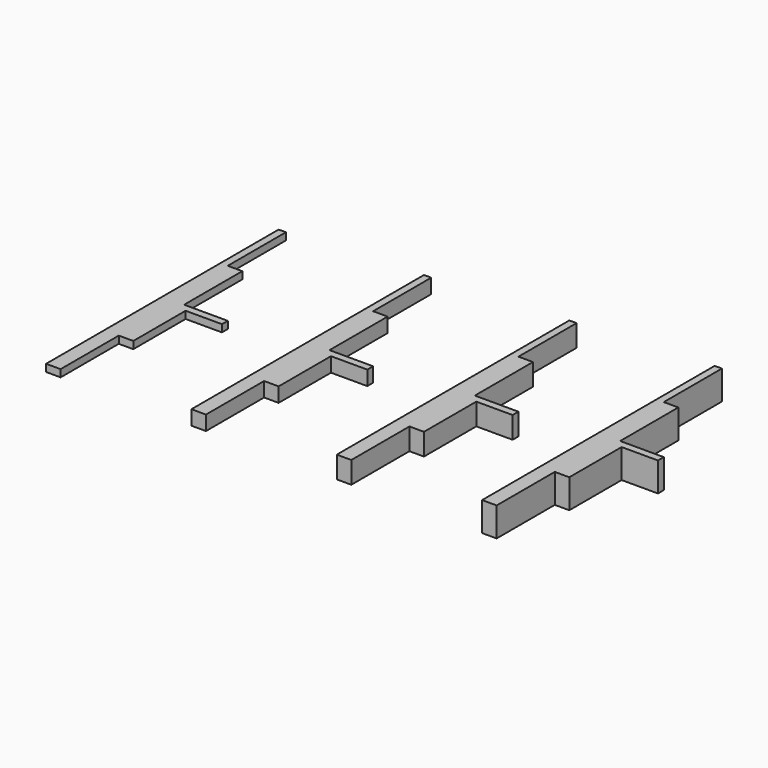
from build123d import *

# Parameters (mm, degrees)
F1_DEPTH = 1
F2_DEPTH = 2
F3_DEPTH = 3
F4_DEPTH = 4


with BuildPart() as f1:
    # F0 (on Top) → F1 (new body)
    with BuildSketch(Plane.XY):
        Polygon((-45.969496, 24.845806), (-46.969496, 24.845806), (-46.969496, -15.154194), (-45.969496, -15.154194), (-45.969496, 14.845806), align=None)
        Polygon((-44.969496, 14.845806), (-45.969496, 14.845806), (-45.969496, -15.154194), (-44.969496, -15.154194), (-44.969496, -5.154194), align=None)
        Polygon((-43.969496, 14.845806), (-44.969496, 14.845806), (-44.969496, -5.154194), (-43.969496, -5.154194), (-43.969496, 4.845806), align=None)
        Polygon((-43.969496, 4.845806), (-43.969496, -5.154194), (-42.969496, -5.154194), (-42.969496, 3.845806), (-42.969496, 4.845806), align=None)
        Polygon((-37.969496, 4.845806), (-42.969496, 4.845806), (-42.969496, 3.845806), (-39.983839, 3.845806), (-37.969496, 3.845806), align=None)
    extrude(amount=F1_DEPTH)


with BuildPart() as f2:
    # F0 (on Top) → F2 (new body)
    with BuildSketch(Plane.XY):
        Polygon((-25.969496, 14.845806), (-25.969496, 24.845806), (-26.969496, 24.845806), (-26.969496, -15.154194), (-25.969496, -15.154194), align=None)
        Polygon((-24.969496, 14.845806), (-25.969496, 14.845806), (-25.969496, -15.154194), (-24.969496, -15.154194), (-24.969496, -5.154194), align=None)
        Polygon((-23.969496, 14.845806), (-24.969496, 14.845806), (-24.969496, -5.154194), (-23.969496, -5.154194), (-23.969496, 4.845806), align=None)
        Polygon((-23.969496, 4.845806), (-23.969496, -5.154194), (-22.969496, -5.154194), (-22.969496, 3.845806), (-22.969496, 4.845806), align=None)
        Polygon((-17.969496, 4.845806), (-22.969496, 4.845806), (-22.969496, 3.845806), (-19.983839, 3.845806), (-17.969496, 3.845806), align=None)
    extrude(amount=F2_DEPTH)


with BuildPart() as f3:
    # F0 (on Top) → F3 (new body)
    with BuildSketch(Plane.XY):
        Polygon((-5.969496, 14.845806), (-5.969496, 24.845806), (-6.969496, 24.845806), (-6.969496, -15.154194), (-5.969496, -15.154194), align=None)
        Polygon((-3.969496, 14.845806), (-4.969496, 14.845806), (-4.969496, -5.154194), (-3.969496, -5.154194), (-3.969496, 4.845806), align=None)
        Polygon((-3.969496, 4.845806), (-3.969496, -5.154194), (-2.969496, -5.154194), (-2.969496, 3.845806), (-2.969496, 4.845806), align=None)
        Polygon((-4.969496, 14.845806), (-5.969496, 14.845806), (-5.969496, -15.154194), (-4.969496, -15.154194), (-4.969496, -5.154194), align=None)
        Polygon((2.030504, 4.845806), (-2.969496, 4.845806), (-2.969496, 3.845806), (0.016161, 3.845806), (2.030504, 3.845806), align=None)
    extrude(amount=F3_DEPTH)


with BuildPart() as f4:
    # F0 (on Top) → F4 (new body)
    with BuildSketch(Plane.XY):
        Polygon((14.030504, 14.845806), (14.030504, 24.845806), (13.030504, 24.845806), (13.030504, -15.154194), (14.030504, -15.154194), align=None)
        Polygon((15.030504, 14.845806), (14.030504, 14.845806), (14.030504, -15.154194), (15.030504, -15.154194), (15.030504, -5.154194), align=None)
        Polygon((16.030504, 14.845806), (15.030504, 14.845806), (15.030504, -5.154194), (16.030504, -5.154194), (16.030504, 4.845806), align=None)
        Polygon((16.030504, 4.845806), (16.030504, -5.154194), (17.030504, -5.154194), (17.030504, 3.845806), (17.030504, 4.845806), align=None)
        Polygon((22.030504, 4.845806), (17.030504, 4.845806), (17.030504, 3.845806), (20.016161, 3.845806), (22.030504, 3.845806), align=None)
    extrude(amount=F4_DEPTH)


solid = Compound([f1.part, f2.part, f3.part, f4.part])
